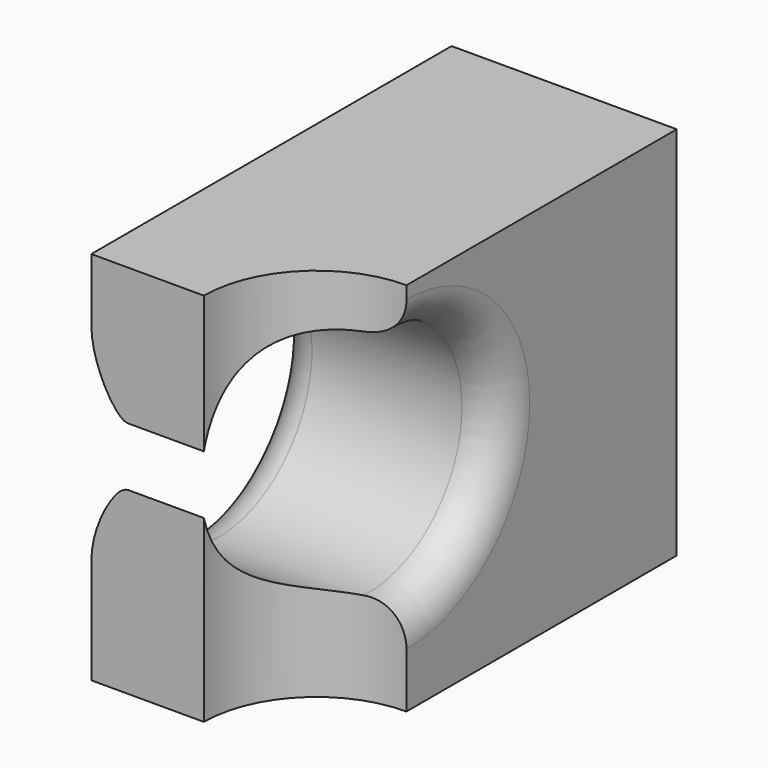
from build123d import *

# Parameters (mm, degrees)
F1_DEPTH = 50
F2_R     = 15.5
F3_DEPTH = 70
F4_R     = 5


with BuildPart() as f1:
    # F0 (on Top) → F1 (new body)
    with BuildSketch(Plane.XY):
        with BuildLine():
            Line((-25.2489881364, 31.0668002069), (-25.2489881364, -28.9331997931))
            Line((-25.2489881364, -28.9331997931), (-10.2489881364, -28.9331997931))
            ThreePointArc((-10.2489881364, -28.9331997931), (-5.8555898542, -18.3265980753), (4.7510118636, -13.9331997931))
            Line((4.7510118636, -13.9331997931), (4.7510118636, 31.0668002069))
            Line((4.7510118636, 31.0668002069), (-25.2489881364, 31.0668002069))
        make_face()
    extrude(amount=F1_DEPTH)

    # F2 (on face) → F3 (cut)
    with BuildSketch(Plane.YZ.offset(4.7510118636)):
        with Locations((-13.9331997931, 27.8249997646)):
            Circle(F2_R)
    extrude(amount=-F3_DEPTH, mode=Mode.SUBTRACT)

    # F4
    f4_edges = [f1.edges().sort_by_distance(p)[0] for p in [
        (4.751012, 1.5668, 27.825),
        (-25.248988, 1.5668, 27.825),
    ]]
    fillet(f4_edges, radius=F4_R)


solid = f1.part
